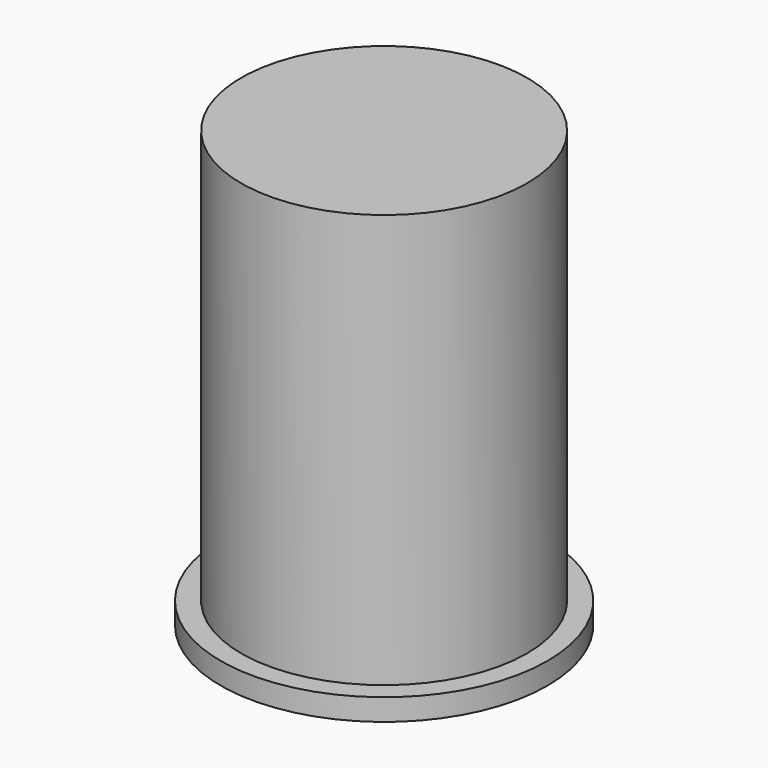
from build123d import *

# Parameters (mm, degrees)
CYLINDER_R        = 10.5
CYLINDER_DEPTH    = 32
CYLINDER001_R     = 12
CYLINDER001_DEPTH = 1.6
SKETCH_R          = 10.25
SKETCH_R_2        = 8.25
PAD_DEPTH         = 4
FILLET_R          = 1


with BuildPart() as body:
    # Cylinder → Cylinder (join)
    with BuildSketch(Plane.XY):
        Circle(CYLINDER_R)
    extrude(amount=CYLINDER_DEPTH)


with BuildPart() as body001:
    # Cylinder001 → Cylinder001 (join)
    with BuildSketch(Plane.XY):
        Circle(CYLINDER001_R)
    extrude(amount=CYLINDER001_DEPTH)

    # Sketch → Pad (join)
    with BuildSketch(Plane.XY.offset(1.6)):
        Circle(SKETCH_R)
        Circle(SKETCH_R_2, mode=Mode.SUBTRACT)
    extrude(amount=PAD_DEPTH)

    # Fillet
    fillet_edges = [body001.edges().sort_by_distance(p)[0] for p in [
        (-10.25, 0, 5.6),
    ]]
    fillet(fillet_edges, radius=FILLET_R)


solid = Compound([body.part, body001.part])
